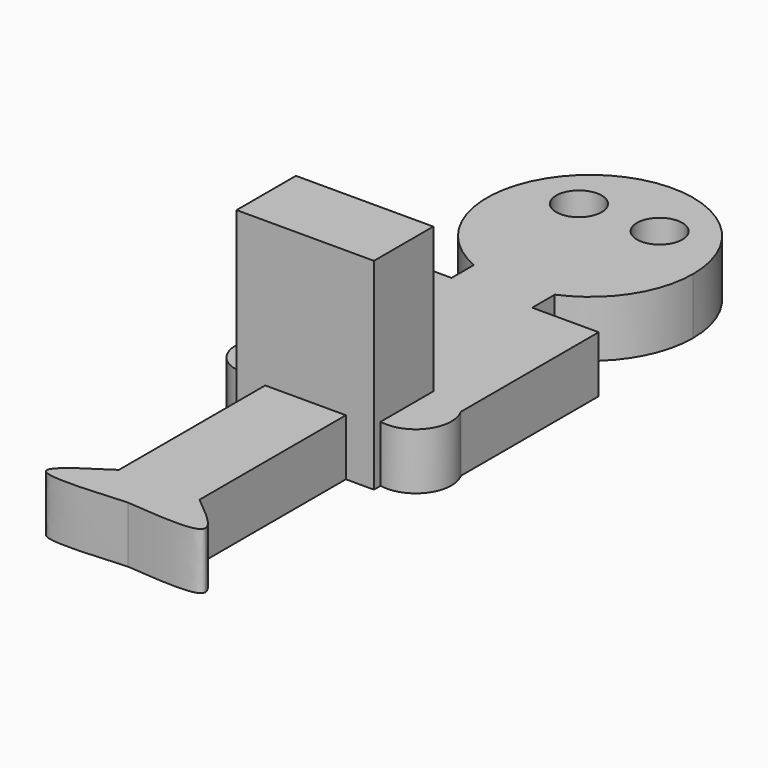
from build123d import *

# Parameters (mm, degrees)
F0_W     = 5.0387987867
F0_H     = 19.8329761624
F0_R     = 2.8154783611
F0_R_2   = 2.8155
F0_W_2   = 4.9696583821
F1_DEPTH = 7
F2_W     = 17.0454550534
F2_H     = 9.2045464553
F3_DEPTH = 25


with BuildPart() as f1:
    # F0 (on Top) → F1 (new body)
    with BuildSketch(Plane.XY):
        with BuildLine():
            ThreePointArc((4.9696583821, 15.8411743726), (0, 14.8370421052), (-4.9696583821, 15.8411743726))
            Line((-4.9696583821, 15.8411743726), (-4.9696583821, 12.3679572716))
            Line((-4.9696583821, 12.3679572716), (-4.9696583821, -13.2841039449))
            Line((-4.9696583821, -13.2841039449), (-4.9696583821, -19.3917378783))
            Line((-4.9696583821, -19.3917378783), (0, -19.3917378783))
            Line((0, -19.3917378783), (5.0387987867, -19.3917378783))
            Line((5.0387987867, -19.3917378783), (5.0387987867, -11.8726156652))
            Line((5.0387987867, -11.8726156652), (5.0387987867, 12.3679572716))
            Line((5.0387987867, 12.3679572716), (5.0387987867, 15.8411743726))
            Line((5.0387987867, 15.8411743726), (4.9696583821, 15.8411743726))
        make_face()
        with BuildLine():
            Line((13.2841020823, 12.3679572716), (5.0387987867, 12.3679572716))
            Line((5.0387987867, 12.3679572716), (5.0387987867, -11.8726156652))
            ThreePointArc((5.0387987867, -11.8726156652), (10.8629911852, -15.3395790039), (13.2841020823, -9.0087596327))
            Line((13.2841020823, -9.0087596327), (13.2841020823, 12.3679572716))
        make_face()
        with BuildLine():
            Line((-4.9696583821, -13.2841039449), (-4.9696583821, 12.3679572716))
            Line((-4.9696583821, 12.3679572716), (-12.0625765994, 12.3679572716))
            Line((-12.0625765994, 12.3679572716), (-12.0625765994, -10.2302869782))
            ThreePointArc((-12.0625765994, -10.2302869782), (-10.0908850734, -15.4148140408), (-4.9696583821, -13.2841039449))
        make_face()
        with BuildLine():
            Line((5.0387987867, -39.2247140408), (0, -39.2247140408))
            Line((0, -39.2247140408), (0, -44.0338738263))
            add(Edge.make_bspline(
                [(5.0387987867, -39.2247140408), (7.2849400651, -41.0469321938), (12.2823824367, -45.1011875053), (4.3610338087, -44.4128386617), (0, -44.0338738263)],
                knots=[0, 0, 0, 0, 0.4494581651, 1, 1, 1, 1], degree=3))
        make_face()
        with Locations((2.5193993933, -29.3082259595)):
            Rectangle(F0_W, F0_H)
        with BuildLine():
            ThreePointArc((4.9696583821, 15.8411743726), (10.6642305698, 20.5579047033), (12.8, 27.6370421052))
            ThreePointArc((12.8, 27.6370421052), (-7.0791374019, 38.301272675), (-4.9696583821, 15.8411743726))
            ThreePointArc((-4.9696583821, 15.8411743726), (0, 14.8370421052), (4.9696583821, 15.8411743726))
        make_face()
        with Locations((-5.0387978554, 32.2177670896)):
            Circle(F0_R, mode=Mode.SUBTRACT)
        with Locations((4.6588750556, 32.61211887)):
            Circle(F0_R_2, mode=Mode.SUBTRACT)
        with BuildLine():
            Line((0, -39.2247140408), (-4.9696583821, -39.2247140408))
            add(Edge.make_bspline(
                [(-4.9696583821, -39.2247140408), (-7.8188484205, -41.0482913635), (-14.1279975934, -45.086358745), (-5.0037621436, -44.4066360778), (0, -44.0338738263)],
                knots=[0, 0, 0, 0, 0.4515965561, 1, 1, 1, 1], degree=3))
            Line((0, -44.0338738263), (0, -39.2247140408))
        make_face()
        with Locations((-2.484829191, -29.3082259595)):
            Rectangle(F0_W_2, F0_H)
    extrude(amount=F1_DEPTH)

    # F2 (on Top) → F3 (join)
    with BuildSketch(Plane.XY):
        with Locations((9.313e-07, -11.9318186771)):
            Rectangle(F2_W, F2_H)
    extrude(amount=F3_DEPTH)


solid = f1.part
